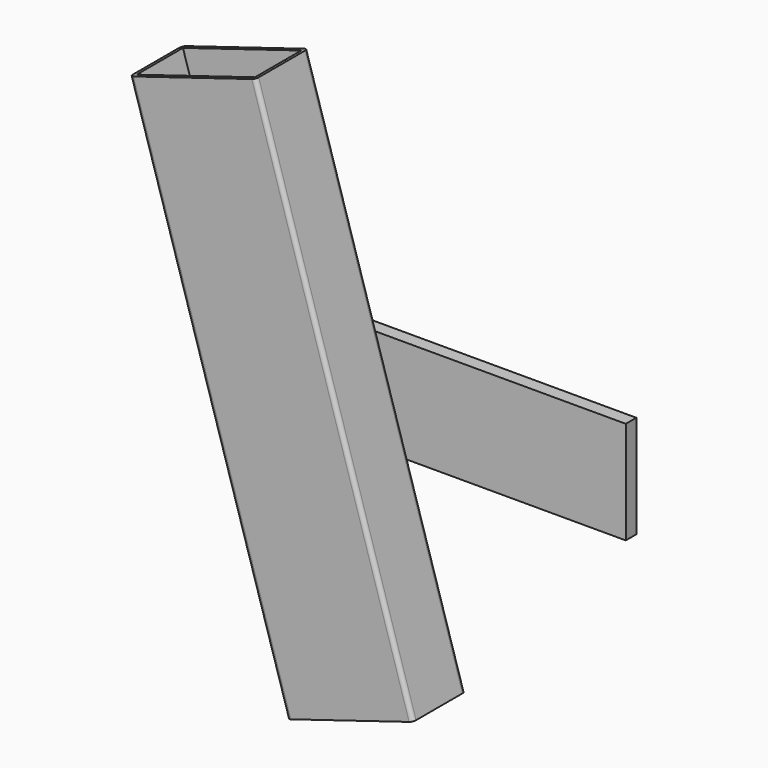
from build123d import *

# Parameters (mm, degrees)
F2_W          = 94
F2_H          = 44
F3_DEPTH      = 203.2
F3_DEPTH_BACK = 205.74
F4_W          = 269.302904
F4_H          = 78
F5_DEPTH      = 10


with BuildPart() as f3:
    # F2 (on face) → F3 (new body, two sides)
    with BuildSketch(Plane(origin=(0, 0, 0), x_dir=(0.956305, 0, 0.292372), z_dir=(0.292372, 0, -0.956305))) as f3_sk:
        with BuildLine():
            ThreePointArc((-50, -22), (-49.12132, -24.12132), (-47, -25))
            Line((-47, -25), (47, -25))
            ThreePointArc((47, -25), (49.12132, -24.12132), (50, -22))
            Line((50, -22), (50, 22))
            ThreePointArc((50, 22), (49.12132, 24.12132), (47, 25))
            Line((47, 25), (-47, 25))
            ThreePointArc((-47, 25), (-49.12132, 24.12132), (-50, 22))
            Line((-50, 22), (-50, -22))
        make_face()
        Rectangle(F2_W, F2_H, mode=Mode.SUBTRACT)
    extrude(amount=F3_DEPTH)
    extrude(f3_sk.sketch, amount=-F3_DEPTH_BACK)

    # F4 (on face) → F5 (join)
    with BuildSketch(Plane(origin=(0, 25, 0), x_dir=(-1, 0, 0), z_dir=(0, 1, 0))):
        with Locations((-94.290361, 0)):
            Rectangle(F4_W, F4_H)
    extrude(amount=F5_DEPTH)


solid = f3.part
